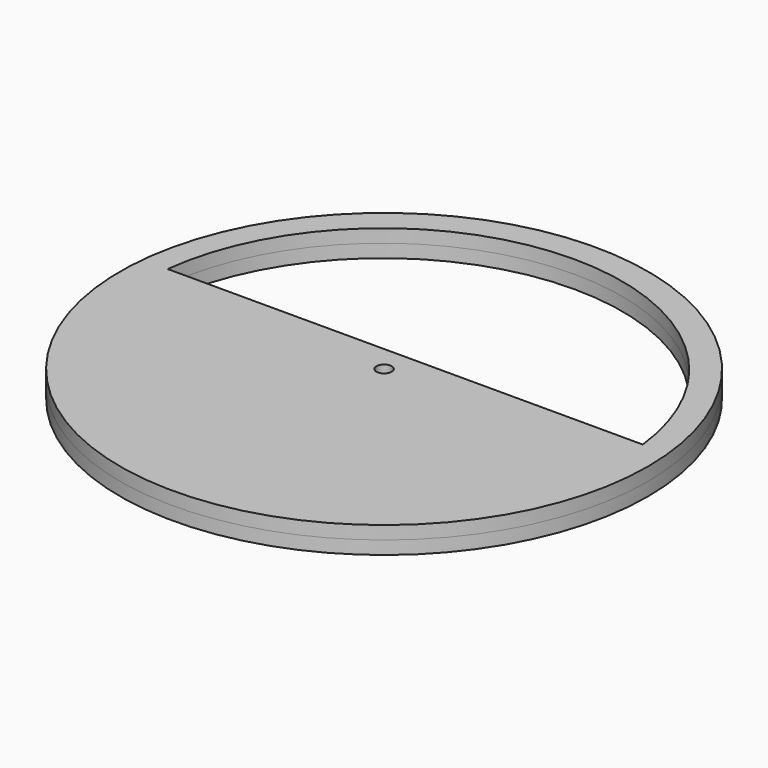
from build123d import *

# Parameters (mm, degrees)
F0_R          = 200
F1_DEPTH      = 10
F2_DEPTH      = 10
F3_R          = 5.75
F4_DEPTH      = 10
F4_DEPTH_BACK = 20
F6_DEPTH      = 10
F6_DEPTH_BACK = 10


with BuildPart() as f1:
    # F0 (on Top) → F1 (new body)
    with BuildSketch(Plane.XY):
        Circle(F0_R)
    extrude(amount=F1_DEPTH)


with BuildPart() as f2:
    # F0 (on Top) → F2 (new body)
    with BuildSketch(Plane.XY):
        Circle(F0_R)
    extrude(amount=-F2_DEPTH)


with BuildPart() as f4_tool:
    # F3 (on Top) → F4 (new body, two sides)
    with BuildSketch(Plane.XY) as f4_sk:
        Circle(F3_R)
    extrude(amount=-F4_DEPTH)
    extrude(f4_sk.sketch, amount=F4_DEPTH_BACK)


with BuildPart() as f1_1:
    add(f1.part)

    # F4: cut by f4_tool
    add(f4_tool.part, mode=Mode.SUBTRACT)


with BuildPart() as f2_1:
    add(f2.part)

    # F4: cut by f4_tool
    add(f4_tool.part, mode=Mode.SUBTRACT)


with BuildPart() as f6_tool:
    # F5 (on Top) → F6 (new body, two sides)
    with BuildSketch(Plane.XY) as f6_sk:
        with BuildLine():
            Line((-180, 20), (180, 20))
            ThreePointArc((180, 20), (0, 180.1724752314), (-180, 20))
        make_face()
    extrude(amount=F6_DEPTH)
    extrude(f6_sk.sketch, amount=-F6_DEPTH_BACK)


with BuildPart() as f1_2:
    add(f1_1.part)

    # F6: cut by f6_tool
    add(f6_tool.part, mode=Mode.SUBTRACT)


with BuildPart() as f2_2:
    add(f2_1.part)

    # F6: cut by f6_tool
    add(f6_tool.part, mode=Mode.SUBTRACT)


solid = Compound([f1_2.part, f2_2.part])
